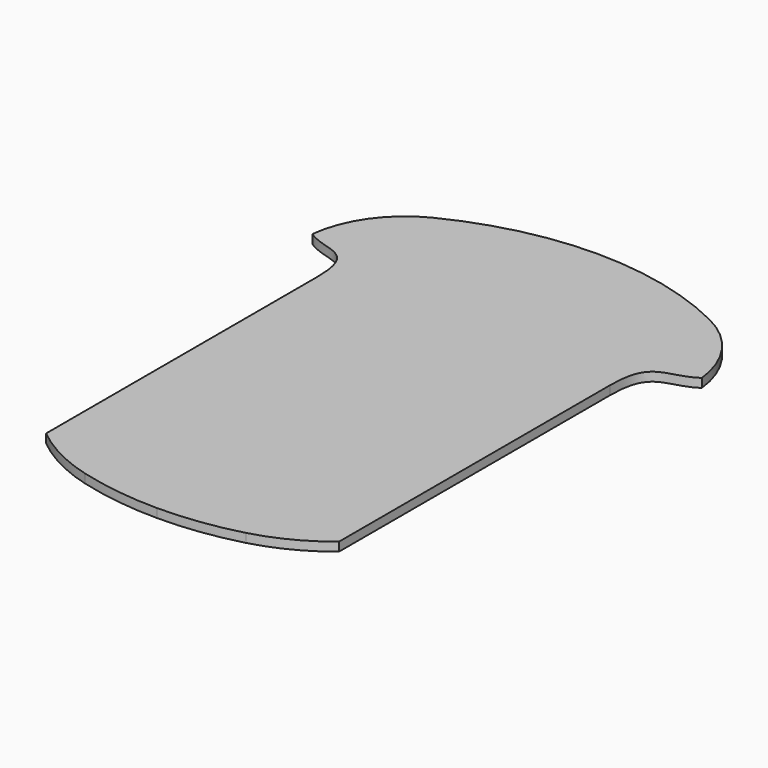
from build123d import *

# Parameters (mm, degrees)
F1_DEPTH = 3.175


with BuildPart() as f1:
    # F0 (on Top) → F1 (new body)
    with BuildSketch(Plane.XY):
        with BuildLine():
            ThreePointArc((28.922397, -102.872733), (41.462552, -98.040783), (52.705, -90.678))
            Line((52.705, -90.678), (52.705, 31.242))
            add(Edge.make_bspline(
                [(52.705, 31.242), (52.705, 50.292), (61.6839, 44.958), (70.0659, 50.8)],
                knots=[0, 0, 0, 0, 26.151792, 26.151792, 26.151792, 26.151792], degree=3))
            ThreePointArc((70.0659, 50.8), (63.662757, 67.803409), (49.909777, 79.676559))
            ThreePointArc((49.909777, 79.676559), (25.638664, 88.459394), (0, 91.44))
            ThreePointArc((0, 91.44), (-25.638664, 88.459394), (-49.909777, 79.676559))
            ThreePointArc((-49.909777, 79.676559), (-63.662757, 67.803409), (-70.0659, 50.8))
            add(Edge.make_bspline(
                [(-52.705, 31.242), (-52.705, 50.292), (-61.6839, 44.958), (-70.0659, 50.8)],
                knots=[0, 0, 0, 0, 26.151792, 26.151792, 26.151792, 26.151792], degree=3))
            Line((-52.705, 31.242), (-52.705, -90.678))
            ThreePointArc((-52.705, -90.678), (-41.462552, -98.040783), (-28.922397, -102.872733))
            ThreePointArc((-28.922397, -102.872733), (-14.585955, -105.724095), (0, -106.68))
            ThreePointArc((0, -106.68), (14.585955, -105.724095), (28.922397, -102.872733))
        make_face()
    extrude(amount=F1_DEPTH)


solid = f1.part
